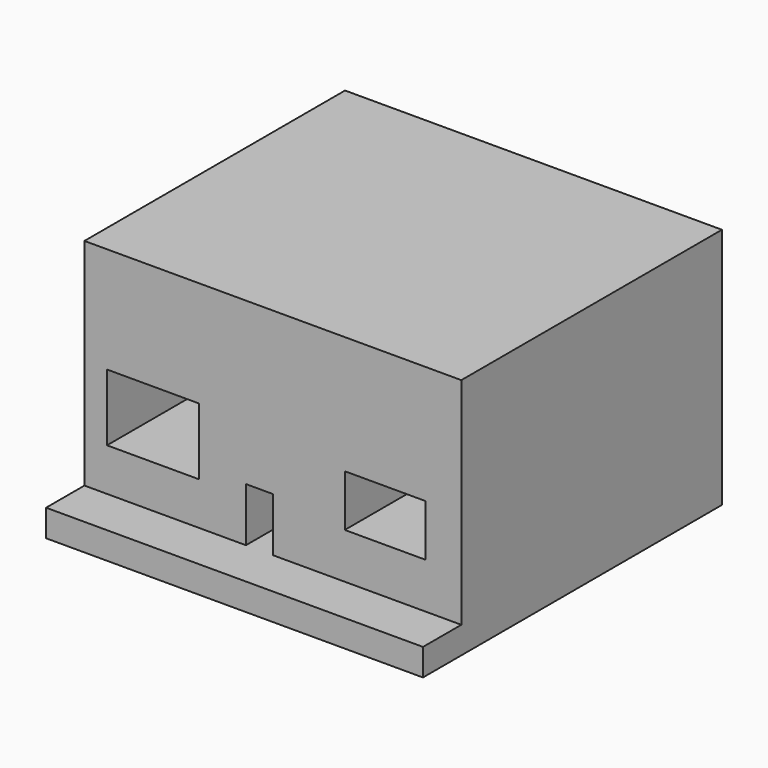
from build123d import *

# Parameters (mm, degrees)
F1_DEPTH = 4230.624
F0_W     = 1042.7208
F0_H     = 755.5992
F0_W_2   = 914.4
F0_H_2   = 585.216
F2_DEPTH = 3688.08


with BuildPart() as f1:
    # F0 (on Front) → F1 (new body)
    with BuildSketch(Plane.XZ):
        Polygon((2133.6, -2743.2), (2133.6, -2438.4), (0, -2438.4), (-304.8, -2438.4), (-2133.6, -2438.4), (-2133.6, -2743.2), align=None)
    extrude(amount=F1_DEPTH)

    # F0 (on Front) → F2 (join)
    with BuildSketch(Plane.XZ):
        Polygon((2133.6, 0), (0, 0), (-2133.6, 0), (-2133.6, -2438.4), (-304.8, -2438.4), (-304.8, -1828.8), (0, -1828.8), (0, -2438.4), (2133.6, -2438.4), align=None)
        with Locations((-1356.3424971489, -1576.1447254471)):
            Rectangle(F0_W, F0_H, mode=Mode.SUBTRACT)
        with Locations((1271.5114447594, -1629.4144618912)):
            Rectangle(F0_W_2, F0_H_2, mode=Mode.SUBTRACT)
    extrude(amount=F2_DEPTH)


solid = f1.part
